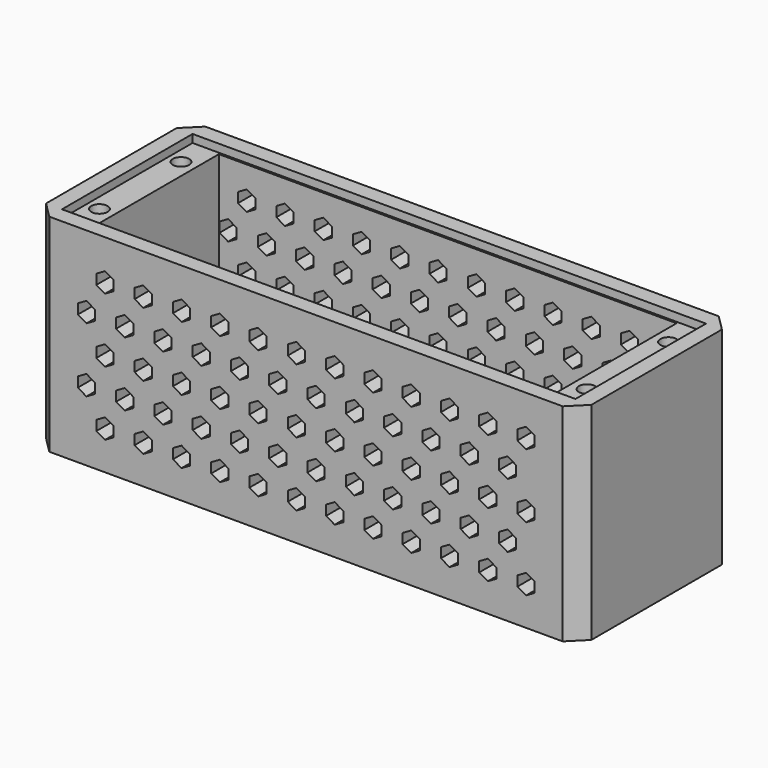
from build123d import *

# Parameters (mm, degrees)
SKETCH_W            = 137
SKETCH_H            = 49
SKETCH_R            = 2.05
SKETCH_W_2          = 115
SKETCH_H_2          = 40
PAD_DEPTH           = 52
SKETCH001_W         = 129
SKETCH001_H         = 41
POCKET_DEPTH        = 2
POCKET001_DEPTH     = 49.001
LINEARPATTERN_COUNT = 12
LINEARPATTERN_PITCH = 9.618182
CHAMFER_SIZE        = 4


with BuildPart() as part:
    # Sketch → Pad (new body)
    with BuildSketch(Plane.XY):
        with Locations((68.5, 24.5)):
            Rectangle(SKETCH_W, SKETCH_H)
        with Locations((7.25, 11.7)):
            Circle(SKETCH_R, mode=Mode.SUBTRACT)
        with Locations((129.75, 11.7)):
            Circle(SKETCH_R, mode=Mode.SUBTRACT)
        with Locations((7.25, 37.3)):
            Circle(SKETCH_R, mode=Mode.SUBTRACT)
        with Locations((129.75, 37.3)):
            Circle(SKETCH_R, mode=Mode.SUBTRACT)
        with Locations((68.5, 24.5)):
            Rectangle(SKETCH_W_2, SKETCH_H_2, mode=Mode.SUBTRACT)
    extrude(amount=-PAD_DEPTH)

    # Sketch001 → Pocket (cut)
    with BuildSketch(Plane.XY):
        with Locations((68.5, 24.5)):
            Rectangle(SKETCH001_W, SKETCH001_H)
    extrude(amount=-POCKET_DEPTH, mode=Mode.SUBTRACT)

    # Sketch002 → Pocket001 (cut, through all)
    with BuildSketch(Plane.XZ):
        Polygon((18, -12.5), (20.165064, -11.25), (20.165064, -8.75), (18, -7.5), (15.834936, -8.75), (15.834936, -11.25), align=None)
        Polygon((15.5, -19.330127), (15.5, -16.830127), (13.334936, -15.580127), (11.169873, -16.830127), (11.169873, -19.330127), (13.334936, -20.580127), align=None)
        Polygon((20.165064, -27.410254), (20.165064, -24.910254), (18, -23.660254), (15.834936, -24.910254), (15.834936, -27.410254), (18, -28.660254), align=None)
        Polygon((13.334936, -36.740381), (15.5, -35.490381), (15.5, -32.990381), (13.334936, -31.740381), (11.169873, -32.990381), (11.169873, -35.490381), align=None)
        Polygon((20.165064, -43.570508), (20.165064, -41.070508), (18, -39.820508), (15.834936, -41.070508), (15.834936, -43.570508), (18, -44.820508), align=None)
    pocket001 = extrude(amount=-POCKET001_DEPTH, mode=Mode.SUBTRACT)

    # LinearPattern: Pocket001 ×12
    with Locations(*[(i * LINEARPATTERN_PITCH, 0, 0) for i in range(1, LINEARPATTERN_COUNT)]):
        add(pocket001, mode=Mode.SUBTRACT)

    # Chamfer
    chamfer_edges = [part.edges().sort_by_distance(p)[0] for p in [
        (0, 0, -26),
        (137, 0, -26),
        (0, 49, -26),
        (137, 49, -26),
    ]]
    chamfer(chamfer_edges, length=CHAMFER_SIZE)


solid = part.part
